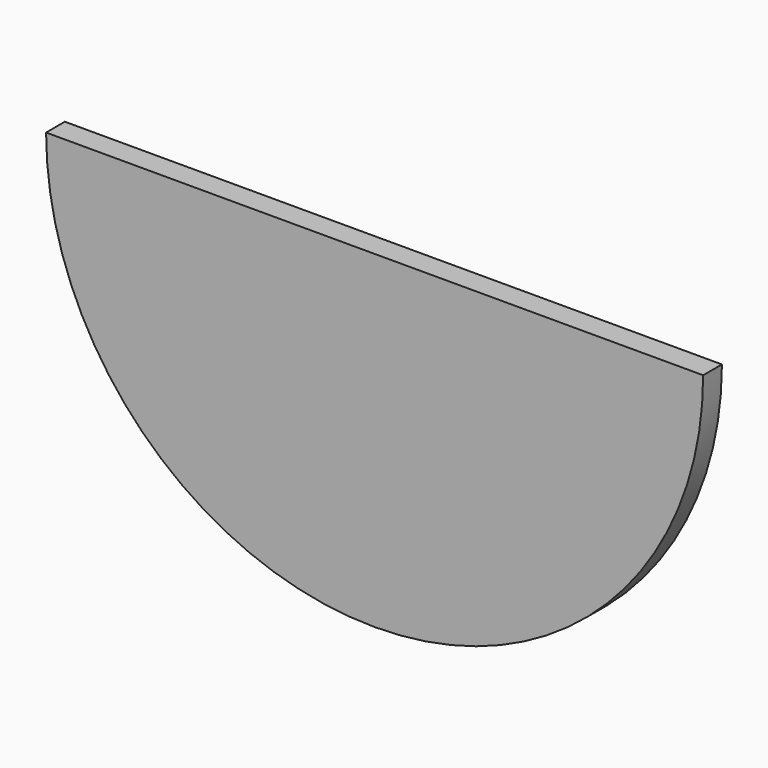
from build123d import *

# Parameters (mm, degrees)
F1_DEPTH = 2.5


with BuildPart() as f1:
    # F0 (on Front) → F1 (new body)
    with BuildSketch(Plane.XZ):
        with BuildLine():
            Line((35, 0), (0, 0))
            Line((0, 0), (-35, 0))
            ThreePointArc((-35, 0), (-24.748737, -24.748737), (0, -35))
            ThreePointArc((0, -35), (24.748737, -24.748737), (35, 0))
        make_face()
    extrude(amount=F1_DEPTH)


solid = f1.part
